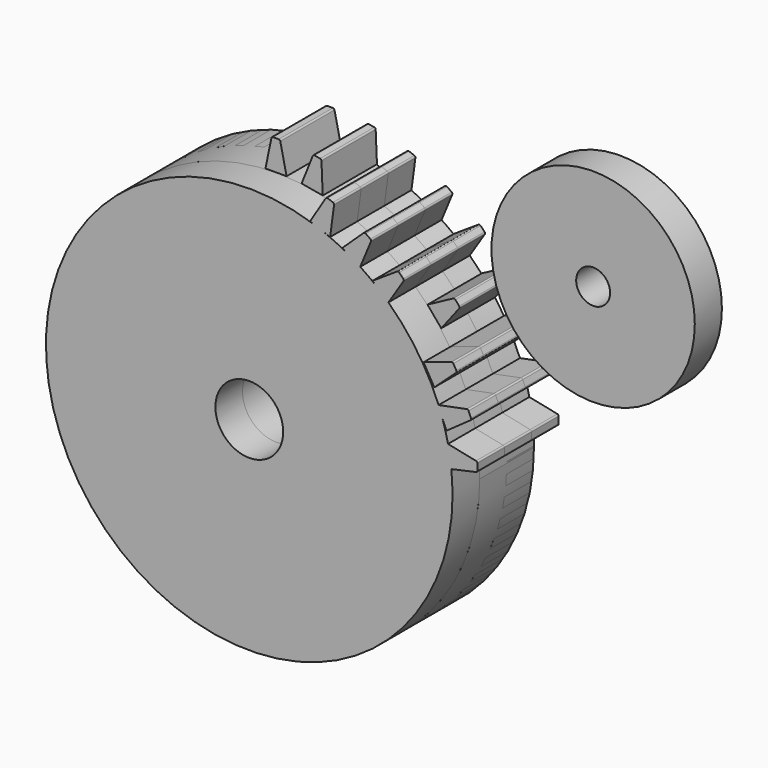
from build123d import *

# Parameters (mm, degrees)
F0_R       = 6.35
F1_DEPTH   = 12.7
F2_R       = 19.05
F2_R_2     = 3.175
F1_FACE_R  = 6.35
F1_FACE1_R = 6.35
F3_DEPTH   = 6.35


with BuildPart() as f1:
    # F0 (on Front) → F1 (new body)
    with BuildSketch(Plane.XZ):
        with BuildLine():
            ThreePointArc((11.9610176511, 36.1738034598), (-30.881424615, -22.3147398315), (38.1, 0))
            ThreePointArc((38.1, 0), (38.0439544567, 2.0657999172), (37.875982714, 4.125522203))
            Line((37.875982714, 4.125522203), (37.217247639, 3.9804143097))
            Line((37.217247639, 3.9804143097), (37.217247639, 8.0706319348))
            Line((37.217247639, 8.0706319348), (37.2362485087, 8.0667091802))
            ThreePointArc((37.2362485087, 8.0667091802), (36.746019755, 10.066778639), (36.148444505, 12.0374399217))
            Line((36.148444505, 12.0374399217), (35.3652158418, 13.8851600548))
            Line((35.3652158418, 13.8851600548), (35.4714272284, 13.9063960242))
            ThreePointArc((35.4714272284, 13.9063960242), (31.5433097717, 21.3688934821), (26.0697855866, 27.7844611153))
            Line((26.0697855866, 27.7844611153), (25.9305053507, 27.5664830911))
            Line((25.9305053507, 27.5664830911), (23.535542787, 29.9614456547))
            ThreePointArc((23.535542787, 29.9614456547), (22.18364566, 30.9757302615), (20.7880967631, 31.9290625131))
            Line((20.7880967631, 31.9290625131), (20.6837166549, 31.678023101))
            Line((20.6837166549, 31.678023101), (17.8637536783, 33.6525824346))
            ThreePointArc((17.8637536783, 33.6525824346), (16.0004263645, 34.5773966075), (14.0894015535, 35.3991350723))
            Line((14.0894015535, 35.3991350723), (11.9610176511, 36.1738034598))
        make_face()
        Circle(F0_R, mode=Mode.SUBTRACT)
        with BuildLine():
            Line((37.217247639, 3.9804143097), (37.875982714, 4.125522203))
            ThreePointArc((37.875982714, 4.125522203), (37.6077792287, 6.1045017396), (37.2362485087, 8.0667091802))
            Line((37.2362485087, 8.0667091802), (37.217247639, 8.0706319348))
            Line((37.217247639, 8.0706319348), (37.217247639, 3.9804143097))
        make_face()
        with BuildLine():
            ThreePointArc((37.2362485087, 8.0667091802), (37.6077792287, 6.1045017396), (37.875982714, 4.125522203))
            Line((37.875982714, 4.125522203), (42.4867296377, 5.1411896512))
            ThreePointArc((42.4867296377, 5.1411896512), (42.6590891549, 5.2481285074), (42.7264453509, 5.4394577132))
            Line((42.7264453509, 5.4394577132), (42.7264453509, 6.6844450772))
            ThreePointArc((42.7264453509, 6.6844450772), (42.6578184205, 6.8773447386), (42.4827782502, 6.9835561962))
            Line((42.4827782502, 6.9835561962), (37.2362485087, 8.0667091802))
        make_face()
        with BuildLine():
            Line((11.3928948397, 36.3805832526), (11.9610176511, 36.1738034598))
            ThreePointArc((11.9610176511, 36.1738034598), (13.0309674607, 35.8022888519), (14.0894015535, 35.3991350723))
            Line((14.0894015535, 35.3991350723), (15.1504644221, 35.0129397714))
            Line((15.1504644221, 35.0129397714), (15.890735988, 40.5779556754))
            ThreePointArc((15.890735988, 40.5779556754), (15.8491967607, 40.7764958847), (15.6924432937, 40.9052284475))
            Line((15.6924432937, 40.9052284475), (14.6939725009, 41.2686420958))
            ThreePointArc((14.6939725009, 41.2686420958), (14.48923432, 41.2701294456), (14.3295609329, 41.1419719471))
            Line((14.3295609329, 41.1419719471), (11.3928948397, 36.3805832526))
        make_face()
        with BuildLine():
            ThreePointArc((14.0894015535, 35.3991350723), (13.0309674607, 35.8022888519), (11.9610176511, 36.1738034598))
            Line((11.9610176511, 36.1738034598), (14.0894015535, 35.3991350723))
        make_face()
        with BuildLine():
            Line((35.3652158418, 13.8851600548), (36.148444505, 12.0374399217))
            ThreePointArc((36.148444505, 12.0374399217), (35.8221266259, 12.9763339968), (35.4714272284, 13.9063960242))
            Line((35.4714272284, 13.9063960242), (35.3652158418, 13.8851600548))
        make_face()
        with BuildLine():
            ThreePointArc((35.4714272284, 13.9063960242), (35.8221266259, 12.9763339968), (36.148444505, 12.0374399217))
            Line((36.148444505, 12.0374399217), (36.9472387544, 10.152998907))
            Line((36.9472387544, 10.152998907), (41.4416299341, 13.3463387071))
            ThreePointArc((41.4416299341, 13.3463387071), (41.5585856287, 13.5120646484), (41.5459295267, 13.7145085795))
            Line((41.5459295267, 13.7145085795), (41.0934419047, 14.7819752446))
            ThreePointArc((41.0934419047, 14.7819752446), (40.9549734127, 14.9327943802), (40.7523625669, 14.9622694564))
            Line((40.7523625669, 14.9622694564), (35.4714272284, 13.9063960242))
        make_face()
        with BuildLine():
            Line((17.4294538945, 33.9566824171), (17.8637536783, 33.6525824346))
            ThreePointArc((17.8637536783, 33.6525824346), (19.3451289959, 32.823406041), (20.7880967631, 31.9290625131))
            Line((20.7880967631, 31.9290625131), (22.8004380012, 36.7688444391))
            ThreePointArc((22.8004380012, 36.7688444391), (22.8117001762, 36.971370698), (22.693606393, 37.1362875877))
            Line((22.693606393, 37.1362875877), (21.8101409822, 37.7548967281))
            ThreePointArc((21.8101409822, 37.7548967281), (21.61276404, 37.8093235382), (21.4253617903, 37.7268594142))
            Line((21.4253617903, 37.7268594142), (17.4294538945, 33.9566824171))
        make_face()
        with BuildLine():
            ThreePointArc((20.7880967631, 31.9290625131), (19.3451289959, 32.823406041), (17.8637536783, 33.6525824346))
            Line((17.8637536783, 33.6525824346), (20.6837166549, 31.678023101))
            Line((20.6837166549, 31.678023101), (20.7880967631, 31.9290625131))
        make_face()
        with BuildLine():
            Line((25.9305053507, 27.5664830911), (26.0697855866, 27.7844611153))
            ThreePointArc((26.0697855866, 27.7844611153), (24.8265375392, 28.9007445201), (23.535542787, 29.9614456547))
            Line((23.535542787, 29.9614456547), (25.9305053507, 27.5664830911))
        make_face()
        with BuildLine():
            ThreePointArc((23.535542787, 29.9614456547), (24.8265375392, 28.9007445201), (26.0697855866, 27.7844611153))
            Line((26.0697855866, 27.7844611153), (28.8990807917, 32.2123986097))
            ThreePointArc((28.8990807917, 32.2123986097), (28.9453401847, 32.4098923834), (28.8576780288, 32.5928105853))
            Line((28.8576780288, 32.5928105853), (28.081642241, 33.3688463731))
            ThreePointArc((28.081642241, 33.3688463731), (27.8967150145, 33.4567204639), (27.6978400812, 33.4080512144))
            Line((27.6978400812, 33.4080512144), (23.1079546401, 30.3890338017))
            Line((23.1079546401, 30.3890338017), (23.535542787, 29.9614456547))
        make_face()
    extrude(amount=F1_DEPTH)


with BuildPart() as f1b:
    # F0 (on Front) → F1, piece 2 (new body)
    with BuildSketch(Plane.XZ):
        with BuildLine():
            Line((0.4322738984, 43.7772348523), (-0.6337269442, 43.7772348523))
            ThreePointArc((-0.6337269442, 43.7772348523), (-0.8266266056, 43.7086079219), (-0.9328380632, 43.5335677516))
            Line((-0.9328380632, 43.5335677516), (-2.0436094985, 38.1532609463))
            Line((-2.0436094985, 38.1532609463), (1.9166005035, 38.1532609463))
            Line((1.9166005035, 38.1532609463), (0.7305419604, 43.5375191391))
            ThreePointArc((0.7305419604, 43.5375191391), (0.6236031042, 43.7098786563), (0.4322738984, 43.7772348523))
        make_face()
    extrude(amount=F1_DEPTH)


with BuildPart() as f1c:
    # F0 (on Front) → F1, piece 3 (new body)
    with BuildSketch(Plane.XZ):
        with BuildLine():
            Line((8.195788844, 43.1197853737), (7.1511955525, 43.3039753549))
            ThreePointArc((7.1511955525, 43.3039753549), (6.9493095289, 43.2698876965), (6.8143162555, 43.1159502057))
            Line((6.8143162555, 43.1159502057), (4.7335480503, 37.877873406))
            Line((4.7335480503, 37.877873406), (8.6870116115, 37.180771113))
            Line((8.6870116115, 37.180771113), (8.4478993471, 42.8319177754))
            ThreePointArc((8.4478993471, 42.8319177754), (8.3725150485, 43.0202285018), (8.195788844, 43.1197853737))
        make_face()
    extrude(amount=F1_DEPTH)


with BuildPart() as f1d:
    # F0 (on Front) → F1, piece 4 (new body)
    with BuildSketch(Plane.XZ):
        with BuildLine():
            Line((34.2471971577, 27.2485794308), (33.5341755441, 28.0983255004))
            ThreePointArc((33.5341755441, 28.0983255004), (33.3576107531, 28.2019826735), (33.1552507944, 28.1708317178))
            Line((33.1552507944, 28.1708317178), (28.3197065481, 25.5633374525))
            Line((28.3197065481, 25.5633374525), (30.8930899493, 22.4964985391))
            Line((30.8930899493, 22.4964985391), (34.2552872823, 26.866006549))
            ThreePointArc((34.2552872823, 26.866006549), (34.3185833609, 27.0587170276), (34.2471971577, 27.2485794308))
        make_face()
    extrude(amount=F1_DEPTH)


with BuildPart() as f1e:
    # F0 (on Front) → F1, piece 5 (new body)
    with BuildSketch(Plane.XZ):
        with BuildLine():
            Line((38.8067656103, 20.66838239), (38.2382724793, 21.6530413766))
            ThreePointArc((38.2382724793, 21.6530413766), (38.0823899835, 21.7857839185), (37.8776950206, 21.7902456538))
            Line((37.8776950206, 21.7902456538), (32.6628269294, 20.0620485319))
            Line((32.6628269294, 20.0620485319), (34.67842464, 16.5709308894))
            Line((34.67842464, 16.5709308894), (38.7482997439, 20.2902168146))
            ThreePointArc((38.7482997439, 20.2902168146), (38.8440980363, 20.4690083393), (38.8067656103, 20.66838239))
        make_face()
    extrude(amount=F1_DEPTH)


with BuildPart() as f3:
    # F2 (on Front) + F1_face (on face) + F1_face1 (on face) → F3 (new body)
    with BuildSketch(Plane.XZ):
        with Locations((54.2719662189, 34.3983545899)):
            Circle(F2_R)
        with Locations((54.2719662189, 34.3983545899)):
            Circle(F2_R_2, mode=Mode.SUBTRACT)
    with BuildSketch(Plane(origin=(0.4693705191, -12.7, 0.4185225073), x_dir=(1, 0, 0), z_dir=(0, -1, 0))):
        with BuildLine():
            ThreePointArc((17.3943831593, 33.2340599273), (15.5310558455, 34.1588741002), (13.6200310344, 34.980612565))
            Line((13.6200310344, 34.980612565), (14.6810939031, 34.5944172641))
            Line((14.6810939031, 34.5944172641), (15.4213654689, 40.1594331681))
            ThreePointArc((15.4213654689, 40.1594331681), (15.3798262416, 40.3579733774), (15.2230727746, 40.4867059402))
            Line((15.2230727746, 40.4867059402), (14.2246019819, 40.8501195885))
            ThreePointArc((14.2246019819, 40.8501195885), (14.0198638009, 40.8516069383), (13.8601904139, 40.7234494399))
            Line((13.8601904139, 40.7234494399), (10.9235243206, 35.9620607453))
            Line((10.9235243206, 35.9620607453), (11.4916471321, 35.7552809525))
            ThreePointArc((11.4916471321, 35.7552809525), (-30.0954525116, -24.374842462), (37.406612195, 3.7069996957))
            Line((37.406612195, 3.7069996957), (42.0173591187, 4.7226671439))
            ThreePointArc((42.0173591187, 4.7226671439), (42.1897186359, 4.8296060001), (42.2570748319, 5.0209352059))
            Line((42.2570748319, 5.0209352059), (42.2570748319, 6.2659225699))
            ThreePointArc((42.2570748319, 6.2659225699), (42.1884479015, 6.4588222313), (42.0134077312, 6.5650336889))
            Line((42.0134077312, 6.5650336889), (36.7668779897, 7.6481866729))
            ThreePointArc((36.7668779897, 7.6481866729), (36.2766492359, 9.6482561317), (35.6790739859, 11.6189174145))
            Line((35.6790739859, 11.6189174145), (36.4778682353, 9.7344763998))
            Line((36.4778682353, 9.7344763998), (40.972259415, 12.9278161998))
            ThreePointArc((40.972259415, 12.9278161998), (41.0892151096, 13.0935421412), (41.0765590077, 13.2959860722))
            Line((41.0765590077, 13.2959860722), (40.6240713857, 14.3634527374))
            ThreePointArc((40.6240713857, 14.3634527374), (40.4856028937, 14.514271873), (40.2829920479, 14.5437469491))
            Line((40.2829920479, 14.5437469491), (35.0020567093, 13.4878735169))
            ThreePointArc((35.0020567093, 13.4878735169), (31.0739392526, 20.9503709748), (25.6004150675, 27.3659386081))
            Line((25.6004150675, 27.3659386081), (28.4297102727, 31.7938761024))
            ThreePointArc((28.4297102727, 31.7938761024), (28.4759696657, 31.9913698762), (28.3883075098, 32.174288078))
            Line((28.3883075098, 32.174288078), (27.612271722, 32.9503238658))
            ThreePointArc((27.612271722, 32.9503238658), (27.4273444955, 33.0381979566), (27.2284695622, 32.9895287071))
            Line((27.2284695622, 32.9895287071), (22.638584121, 29.9705112944))
            Line((22.638584121, 29.9705112944), (23.066172268, 29.5429231474))
            ThreePointArc((23.066172268, 29.5429231474), (21.7142751409, 30.5572077542), (20.3187262441, 31.5105400058))
            Line((20.3187262441, 31.5105400058), (22.3310674822, 36.3503219319))
            ThreePointArc((22.3310674822, 36.3503219319), (22.3423296571, 36.5528481908), (22.224235874, 36.7177650804))
            Line((22.224235874, 36.7177650804), (21.3407704631, 37.3363742209))
            ThreePointArc((21.3407704631, 37.3363742209), (21.143393521, 37.3908010309), (20.9559912713, 37.3083369069))
            Line((20.9559912713, 37.3083369069), (16.9600833755, 33.5381599098))
            Line((16.9600833755, 33.5381599098), (17.3943831593, 33.2340599273))
        make_face()
        with Locations((-0.4693705191, -0.4185225073)):
            Circle(F1_FACE_R, mode=Mode.SUBTRACT)
        with BuildLine():
            ThreePointArc((38.2789292249, 19.8716943073), (38.3747275173, 20.050485832), (38.3373950912, 20.2498598828))
            Line((38.3373950912, 20.2498598828), (37.7689019603, 21.2345188693))
            ThreePointArc((37.7689019603, 21.2345188693), (37.6130194645, 21.3672614112), (37.4083245015, 21.3717231465))
            Line((37.4083245015, 21.3717231465), (32.1934564103, 19.6435260246))
            Line((32.1934564103, 19.6435260246), (34.209054121, 16.1524083822))
            Line((34.209054121, 16.1524083822), (38.2789292249, 19.8716943073))
        make_face()
    with BuildSketch(Plane(origin=(0.4693705191, 0, 0.4185225073), x_dir=(1, 0, 0), z_dir=(0, 1, 0))):
        with BuildLine():
            ThreePointArc((13.6200310344, -34.980612565), (15.5310558455, -34.1588741002), (17.3943831593, -33.2340599273))
            Line((17.3943831593, -33.2340599273), (16.9600833755, -33.5381599098))
            Line((16.9600833755, -33.5381599098), (20.9559912713, -37.3083369069))
            ThreePointArc((20.9559912713, -37.3083369069), (21.143393521, -37.3908010309), (21.3407704631, -37.3363742209))
            Line((21.3407704631, -37.3363742209), (22.224235874, -36.7177650804))
            ThreePointArc((22.224235874, -36.7177650804), (22.3423296571, -36.5528481908), (22.3310674822, -36.3503219319))
            Line((22.3310674822, -36.3503219319), (20.3187262441, -31.5105400058))
            ThreePointArc((20.3187262441, -31.5105400058), (21.7142751409, -30.5572077542), (23.066172268, -29.5429231474))
            Line((23.066172268, -29.5429231474), (22.638584121, -29.9705112944))
            Line((22.638584121, -29.9705112944), (27.2284695622, -32.9895287071))
            ThreePointArc((27.2284695622, -32.9895287071), (27.4273444955, -33.0381979566), (27.612271722, -32.9503238658))
            Line((27.612271722, -32.9503238658), (28.3883075098, -32.174288078))
            ThreePointArc((28.3883075098, -32.174288078), (28.4759696657, -31.9913698762), (28.4297102727, -31.7938761024))
            Line((28.4297102727, -31.7938761024), (25.6004150675, -27.3659386081))
            ThreePointArc((25.6004150675, -27.3659386081), (31.0739392526, -20.9503709748), (35.0020567093, -13.4878735169))
            Line((35.0020567093, -13.4878735169), (40.2829920479, -14.5437469491))
            ThreePointArc((40.2829920479, -14.5437469491), (40.4856028937, -14.514271873), (40.6240713857, -14.3634527374))
            Line((40.6240713857, -14.3634527374), (41.0765590077, -13.2959860722))
            ThreePointArc((41.0765590077, -13.2959860722), (41.0892151096, -13.0935421412), (40.972259415, -12.9278161998))
            Line((40.972259415, -12.9278161998), (36.4778682353, -9.7344763998))
            Line((36.4778682353, -9.7344763998), (35.6790739859, -11.6189174145))
            ThreePointArc((35.6790739859, -11.6189174145), (36.2766492359, -9.6482561317), (36.7668779897, -7.6481866729))
            Line((36.7668779897, -7.6481866729), (42.0134077312, -6.5650336889))
            ThreePointArc((42.0134077312, -6.5650336889), (42.1884479015, -6.4588222313), (42.2570748319, -6.2659225699))
            Line((42.2570748319, -6.2659225699), (42.2570748319, -5.0209352059))
            ThreePointArc((42.2570748319, -5.0209352059), (42.1897186359, -4.8296060001), (42.0173591187, -4.7226671439))
            Line((42.0173591187, -4.7226671439), (37.406612195, -3.7069996957))
            ThreePointArc((37.406612195, -3.7069996957), (-30.0954525116, 24.374842462), (11.4916471321, -35.7552809525))
            Line((11.4916471321, -35.7552809525), (10.9235243206, -35.9620607453))
            Line((10.9235243206, -35.9620607453), (13.8601904139, -40.7234494399))
            ThreePointArc((13.8601904139, -40.7234494399), (14.0198638009, -40.8516069383), (14.2246019819, -40.8501195885))
            Line((14.2246019819, -40.8501195885), (15.2230727746, -40.4867059402))
            ThreePointArc((15.2230727746, -40.4867059402), (15.3798262416, -40.3579733774), (15.4213654689, -40.1594331681))
            Line((15.4213654689, -40.1594331681), (14.6810939031, -34.5944172641))
            Line((14.6810939031, -34.5944172641), (13.6200310344, -34.980612565))
        make_face()
        with Locations((-0.4693705191, 0.4185225073)):
            Circle(F1_FACE1_R, mode=Mode.SUBTRACT)
    extrude(amount=F3_DEPTH, dir=(0, -1, 0))


solid = Compound([f1.part, f1b.part, f1c.part, f1d.part, f1e.part, f3.part])
